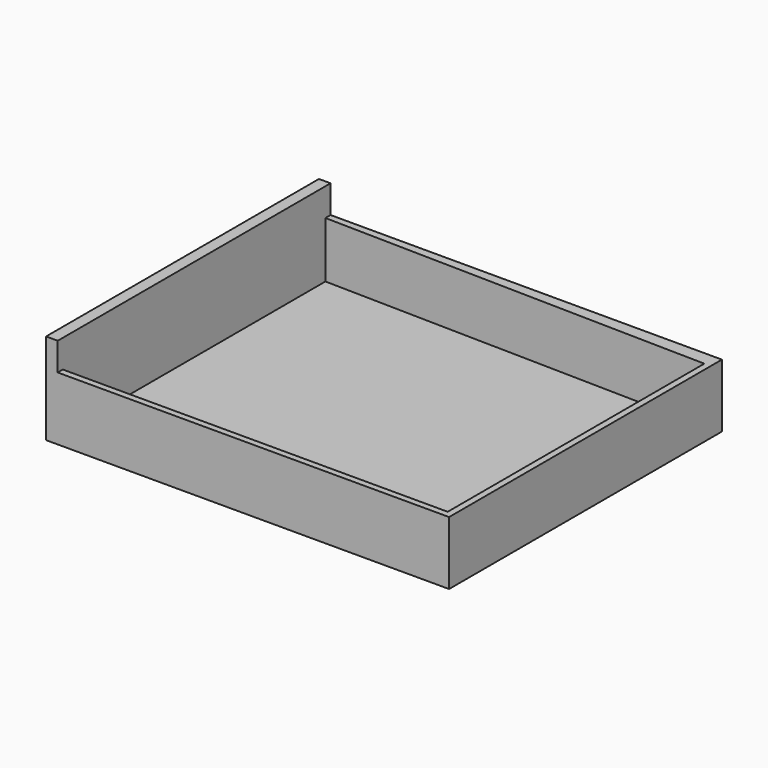
from build123d import *

# Parameters (mm, degrees)
F1_DEPTH = 77.47
F4_DEPTH = 25.4


with BuildPart() as f1:
    # F0 (on Front) → F1 (new body, symmetric)
    with BuildSketch(Plane.XZ):
        Polygon((0, 0), (0, 38.1), (-5.289885, 38.1), (-5.289885, -3.385523), (177.8, -3.385523), (177.8, 0), align=None)
    extrude(amount=F1_DEPTH, both=True)

    # F3 (on face) → F4 (join)
    with BuildSketch(Plane.XY):
        Polygon((0, -74.555106), (0, -77.47), (177.8, -77.47), (177.8, 77.47), (0, 77.47), (-0.057133, 74.549559), (174.879, 71.127237), (174.879, -74.599277), align=None)
    extrude(amount=F4_DEPTH)


solid = f1.part
